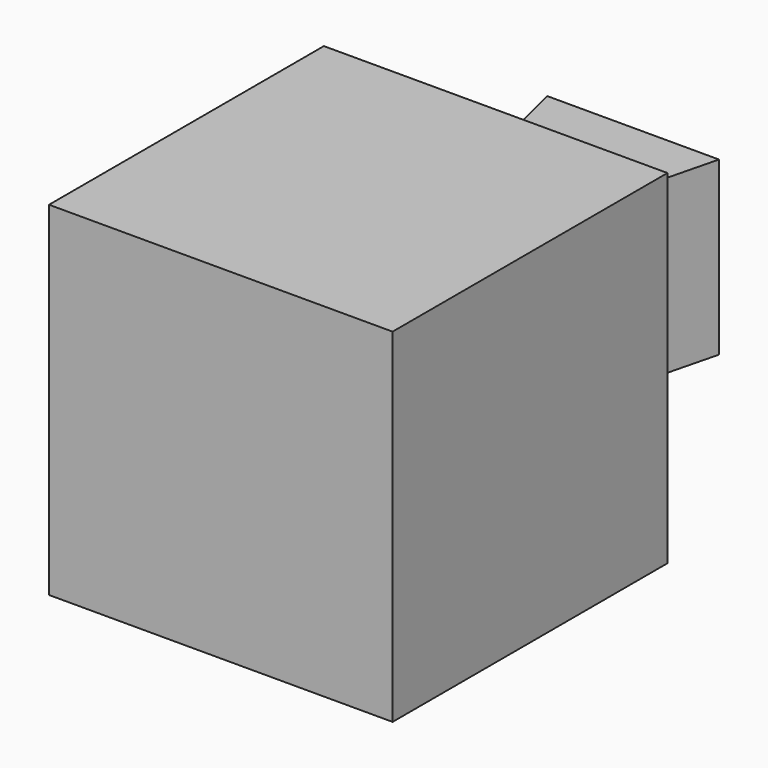
from build123d import *

# Parameters (mm, degrees)
F0_W     = 40
F0_H     = 40
F1_DEPTH = 40
F3_DEPTH = 10


with BuildPart() as f1:
    # F0 (on Front) → F1 (new body)
    with BuildSketch(Plane.XZ):
        Rectangle(F0_W, F0_H)
    extrude(amount=F1_DEPTH)

    # F2 (on Top) → F3 (join, symmetric)
    with BuildSketch(Plane.XY):
        Polygon((-5, 0), (5, 0), (10, 20), (-10, 20), align=None)
    extrude(amount=F3_DEPTH, both=True)


solid = f1.part
